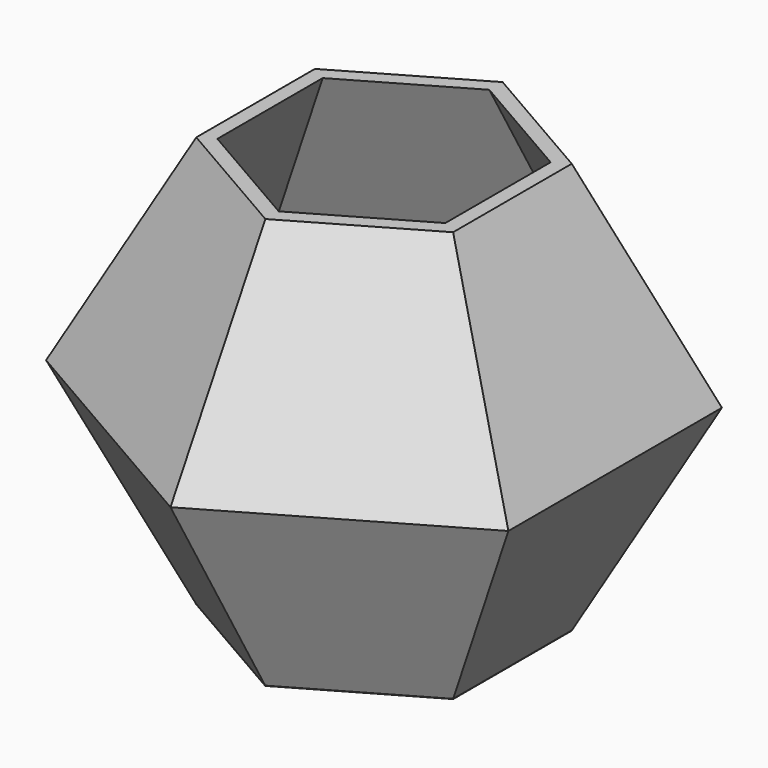
from build123d import *

# Parameters (mm, degrees)
F12_R     = 4.7625
F13_DEPTH = 3.571875


with BuildPart() as f5:
    # F0 (on Top) → F5 section 0
    with BuildSketch(Plane.XY):
        Polygon((-31.75, 18.3308710468), (-31.75, -18.3308710468), (0, -36.6617420935), (31.75, -18.3308710468), (31.75, 18.3308710468), (0, 36.6617420935), align=None)
    # F2 (on offset) → F5 section 1
    with BuildSketch(Plane.XY.offset(50.8)):
        Polygon((-57.15, 32.9955678842), (-57.15, -32.9955678842), (0, -65.9911357684), (57.15, -32.9955678842), (57.15, 32.9955678842), (0, 65.9911357684), align=None)
    loft()

    # F5_face (on face) → F6 section 0
    with BuildSketch(Plane.XY.offset(50.8)):
        Polygon((-57.15, 32.9955678842), (-57.15, -32.9955678842), (0, -65.9911357684), (57.15, -32.9955678842), (57.15, 32.9955678842), (0, 65.9911357684), align=None)
    # F4 (on offset) → F6 section 1
    with BuildSketch(Plane.XY.offset(101.6)):
        Polygon((-31.75, 18.3308710468), (-31.75, -18.3308710468), (0, -36.6617420935), (31.75, -18.3308710468), (31.75, 18.3308710468), (0, 36.6617420935), align=None)
    loft()

    # F7 (on face) → F9 section 0
    with BuildSketch(Plane(origin=(0, 0, 0), x_dir=(1, 0, 0), z_dir=(0, 0, -1))):
        Polygon((-28.178125, 16.268648054), (-28.178125, -16.268648054), (0, -32.537296108), (28.178125, -16.268648054), (28.178125, 16.268648054), (0, 32.537296108), align=None)
    # F8 (on offset) → F9 section 1
    with BuildSketch(Plane.XY.offset(50.8)):
        Polygon((-53.578125, 30.9333448914), (-53.578125, -30.9333448914), (0, -61.8666897829), (53.578125, -30.9333448914), (53.578125, 30.9333448914), (0, 61.8666897829), align=None)
    loft(mode=Mode.SUBTRACT)

    # F8 (on offset) → F11 section 0
    with BuildSketch(Plane.XY.offset(50.8)):
        Polygon((-53.578125, 30.9333448914), (-53.578125, -30.9333448914), (0, -61.8666897829), (53.578125, -30.9333448914), (53.578125, 30.9333448914), (0, 61.8666897829), align=None)
    # F10 (on face) → F11 section 1
    with BuildSketch(Plane.XY.offset(101.6)):
        Polygon((-28.178125, 16.268648054), (-28.178125, -16.268648054), (0, -32.537296108), (28.178125, -16.268648054), (28.178125, 16.268648054), (0, 32.537296108), align=None)
    loft(mode=Mode.SUBTRACT)

    # F12 (on Top) → F13 (join)
    with BuildSketch(Plane.XY):
        Polygon((-31.7834205925, 18.3501664349), (-31.7834205925, -18.3501664349), (0, -36.7003328697), (31.7834205925, -18.3501664349), (31.7834205925, 18.3501664349), (0, 36.7003328697), align=None)
        Circle(F12_R, mode=Mode.SUBTRACT)
    extrude(amount=F13_DEPTH)


solid = f5.part
